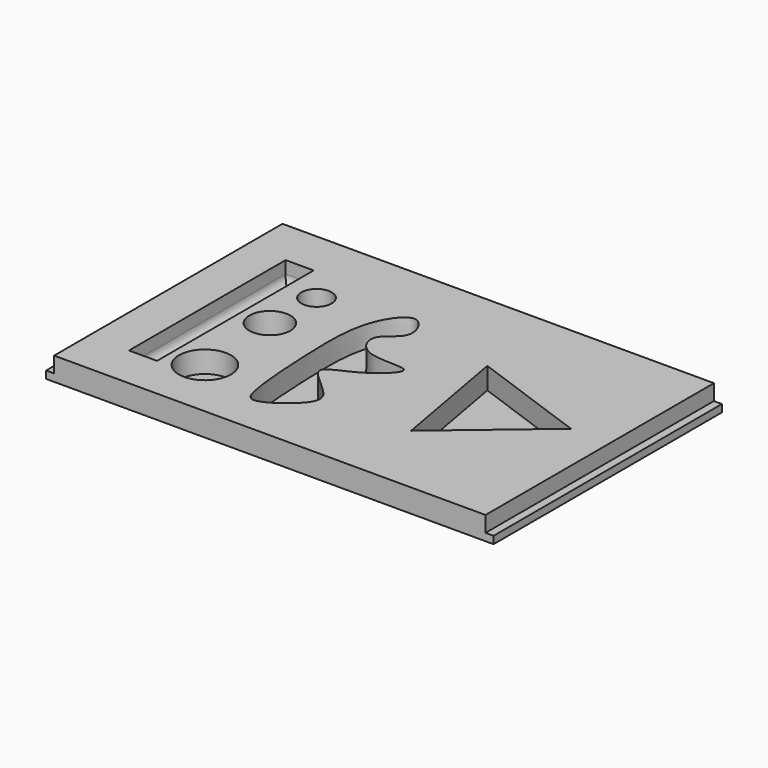
from build123d import *

# Parameters (mm, degrees)
F0_W      = 368.3
F0_H      = 234.95
F1_DEPTH  = 19.05
F2_W      = 6.604
F2_H      = 12.954
F3_DEPTH  = 234.951
F4_R      = 16.8960598702
F4_R_2    = 21.4477044948
F4_W      = 23.0748131871
F4_H      = 161.1514985561
F4_R_3    = 12.4831112704
F5_DEPTH  = 17.78
F6_R      = 7.62
F8_DEPTH  = 101.6
F14_DEPTH = 44.45


with BuildPart() as f1:
    # F0 (on Top) → F1 (new body)
    with BuildSketch(Plane.XY):
        Rectangle(F0_W, F0_H)
    extrude(amount=F1_DEPTH)

    # F2 (on face) → F3 (cut, through all)
    with BuildSketch(Plane.XZ.offset(117.475)):
        with Locations((180.848, 12.573)):
            Rectangle(F2_W, F2_H)
        with Locations((-180.848, 12.573)):
            Rectangle(F2_W, F2_H)
    extrude(amount=-F3_DEPTH, mode=Mode.SUBTRACT)

    # F4 (on face) → F5 (cut)
    with BuildSketch(Plane.XY.offset(19.05)):
        with BuildLine():
            add(Edge.make_bspline(
                [(-46.1496077478, -75.1792117953), (-49.3186279348, -60.6904518614), (-52.4598845595, -7.9087934106), (-52.5301794964, 45.6558860892), (-27.0101126446, 77.186916711), (-10.4710171081, 43.8396118699), (-38.9306329093, 34.1741312423), (-25.0554307802, 4.9086663528), (24.8994478008, 14.7435687242), (-9.0404651832, -16.7182072693), (-44.7013135767, -25.0884012199), (-2.5046643875, -50.5573295528), (-8.3693665776, -69.2660043872), (-40.33373303, -91.7806813493), (-44.7509198876, -81.5740125329), (-46.1496077478, -75.1792117953)],
                knots=[0, 0, 0, 0, 0.1157160493, 0.2250923254, 0.2979411693, 0.3640759595, 0.4304625959, 0.4971515908, 0.5778883555, 0.6550256298, 0.7270889253, 0.8092921071, 0.8674075577, 0.9489272318, 1, 1, 1, 1], degree=3))
        make_face()
        with Locations((-97.5096747279, 4.4660978019)):
            Circle(F4_R)
        with Locations((-93.7879234552, -66.9913738966)):
            Circle(F4_R_2)
        with Locations((-132.866229862, -1.3026073575)):
            Rectangle(F4_W, F4_H)
        with Locations((-96.0209742188, 50.6157167256)):
            Circle(F4_R_3)
        Polygon((145.4843993486, 10.5082045873), (48.7906520068, 45.3179564694), (66.9913962483, -55.8261610568), align=None)
    extrude(amount=-F5_DEPTH, mode=Mode.SUBTRACT)

    # F6
    f6_edges = [f1.edges().sort_by_distance(p)[0] for p in [
        (-144.403636, -1.302607, 1.27),
        (-132.86623, -81.878357, 1.27),
        (-121.328823, -1.302607, 1.27),
        (-132.86623, 79.273142, 1.27),
    ]]
    fillet(f6_edges, radius=F6_R)


with BuildPart() as f8:
    # F7 (on Right) → F8 (new body)
    with BuildSketch(Plane.YZ):
        Polygon((-12.7, 71.9454362988), (8.5887098685, 71.9454362988), (8.5887098685, 84.6454362988), (0, 84.6454362988), align=None)
        Polygon((-19.05, 71.9454362988), (-12.7, 71.9454362988), (0, 84.6454362988), (8.5887098685, 84.6454362988), (8.5887098685, 90.9954362988), (0, 90.9954362988), align=None)
        Polygon((-19.05, 71.9454362988), (-12.7, 71.9454362988), (0, 84.6454362988), (8.5887098685, 84.6454362988), (8.5887098685, 90.9954362988), (0, 90.9954362988), align=None)
    extrude(amount=F8_DEPTH)

    # F13 (on 3pt) → F14 (cut, symmetric)
    with BuildSketch(Plane.YZ.offset(50.8)):
        Polygon((0, 86.9807004929), (-17.2928925604, 70.0769647956), (10.7373492792, 68.7931329012), (10.095436126, 86.9807004929), align=None)
    extrude(amount=F14_DEPTH, both=True, mode=Mode.SUBTRACT)


with BuildPart() as f15_1:
    # F15: copy of F8
    add(f8.part)


solid = f1.part
